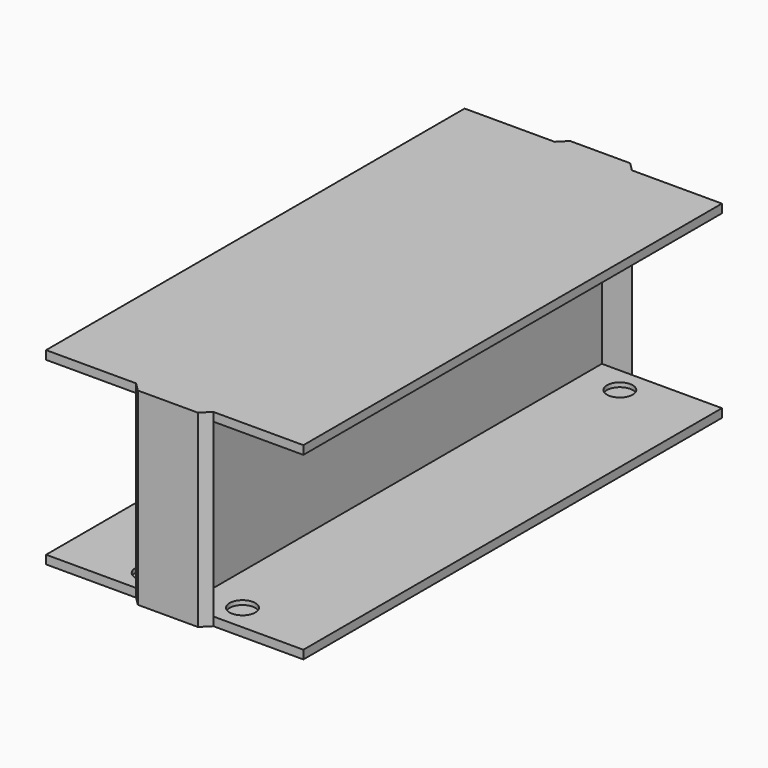
from build123d import *

# Parameters (mm, degrees)
F0_R     = 1.5
F1_DEPTH = 11
F2_W     = 61
F2_H     = 1
F2_H_2   = 18
F3_DEPTH = 15
F4_DEPTH = 1
F5_DEPTH = 10.5


with BuildPart() as f1:
    # F0 (on Top) → F1 (new body, symmetric)
    with BuildSketch(Plane.XY):
        Polygon((-4.5, 30.5), (-15, 30.5), (-15, -30.5), (-4.5, -30.5), (4.5, -30.5), (15, -30.5), (15, 30.5), (4.5, 30.5), align=None)
        with Locations((-5.5, -27.5)):
            Circle(F0_R, mode=Mode.SUBTRACT)
        with Locations((5.5, -27.5)):
            Circle(F0_R, mode=Mode.SUBTRACT)
        with Locations((-5.5, 27.5)):
            Circle(F0_R, mode=Mode.SUBTRACT)
        with Locations((5.5, 27.5)):
            Circle(F0_R, mode=Mode.SUBTRACT)
        with Locations((5.5, -27.5)):
            Circle(F0_R)
        with Locations((-5.5, -27.5)):
            Circle(F0_R)
        with Locations((-5.5, 27.5)):
            Circle(F0_R)
        with Locations((5.5, 27.5)):
            Circle(F0_R)
        Polygon((-3.5, 31.5), (-4.5, 30.5), (4.5, 30.5), (3.5, 31.5), align=None)
        Polygon((4.5, -30.5), (-4.5, -30.5), (-3.5, -31.5), (3.5, -31.5), align=None)
    extrude(amount=F1_DEPTH, both=True)

    # F2 (on Right) → F3 (cut, symmetric)
    with BuildSketch(Plane.YZ):
        with Locations((0, 9.5)):
            Rectangle(F2_W, F2_H)
        Rectangle(F2_W, F2_H_2)
        with Locations((0, -9.5)):
            Rectangle(F2_W, F2_H)
    extrude(amount=F3_DEPTH, both=True, mode=Mode.SUBTRACT)

    # F2 (on Right) → F4 (join, symmetric)
    with BuildSketch(Plane.YZ):
        with Locations((0, 9.5)):
            Rectangle(F2_W, F2_H)
        Rectangle(F2_W, F2_H_2)
        with Locations((0, -9.5)):
            Rectangle(F2_W, F2_H)
    extrude(amount=F4_DEPTH, both=True)

    # F0 (on Top) → F5 (cut, symmetric)
    with BuildSketch(Plane.XY):
        with Locations((-5.5, -27.5)):
            Circle(F0_R)
        with Locations((5.5, -27.5)):
            Circle(F0_R)
        with Locations((5.5, 27.5)):
            Circle(F0_R)
        with Locations((-5.5, 27.5)):
            Circle(F0_R)
    extrude(amount=F5_DEPTH, both=True, mode=Mode.SUBTRACT)


solid = f1.part
